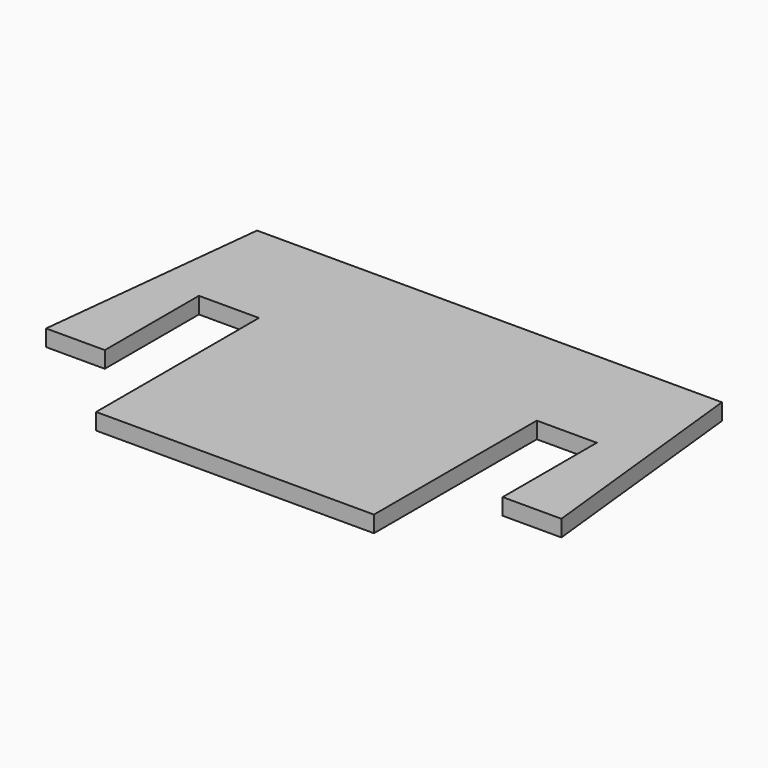
from build123d import *

# Parameters (mm, degrees)
F1_DEPTH = 20


with BuildPart() as f1:
    # F0 (on Top) → F1 (new body)
    with BuildSketch(Plane.XY):
        Polygon((-168.723494, 0), (0, 0), (0, 386.277199), (-282.287142, 386.277199), (-312.914993, 104.289683), (-241.597578, 104.289683), (-241.597578, 247.175738), (-168.723494, 247.175738), align=None)
    extrude(amount=F1_DEPTH)

    # F2: F1 across plane


with BuildPart() as f1_1:
    add(f1.part)
    add(f1.part.mirror(Plane.YZ))


solid = f1_1.part
